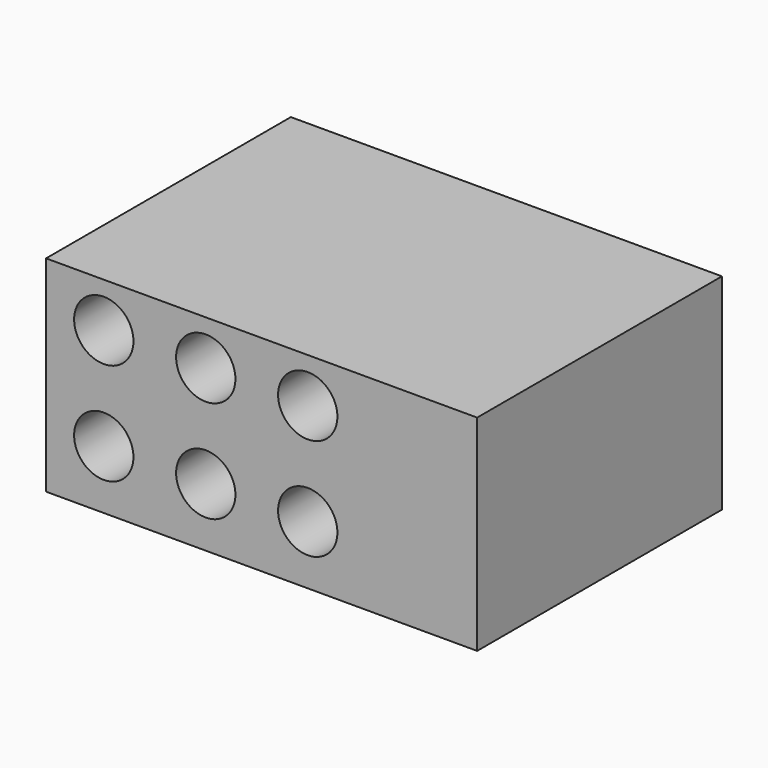
from build123d import *

# Parameters (mm, degrees)
F0_W     = 107.36537
F0_H     = 51.160677
F1_DEPTH = 76.2
F3_R     = 7.388078
F4_DEPTH = 84.074


with BuildPart() as f1:
    # F0 (on Front) → F1 (new body)
    with BuildSketch(Plane.XZ):
        with Locations((1.981586, 0.540432)):
            Rectangle(F0_W, F0_H)
    extrude(amount=F1_DEPTH)

    # F3 (on face) → F4 (cut)
    with BuildSketch(Plane.XZ.offset(76.2)):
        with Locations((-37.330247, 15.001875)):
            Circle(F3_R)
        with Locations((-37.330247, -10.398125)):
            Circle(F3_R)
        with Locations((-11.930247, 15.001875)):
            Circle(F3_R)
        with Locations((-11.930247, -10.398125)):
            Circle(F3_R)
        with Locations((13.469753, 15.001875)):
            Circle(F3_R)
        with Locations((13.469753, -10.398125)):
            Circle(F3_R)
    extrude(amount=-F4_DEPTH, mode=Mode.SUBTRACT)


solid = f1.part
